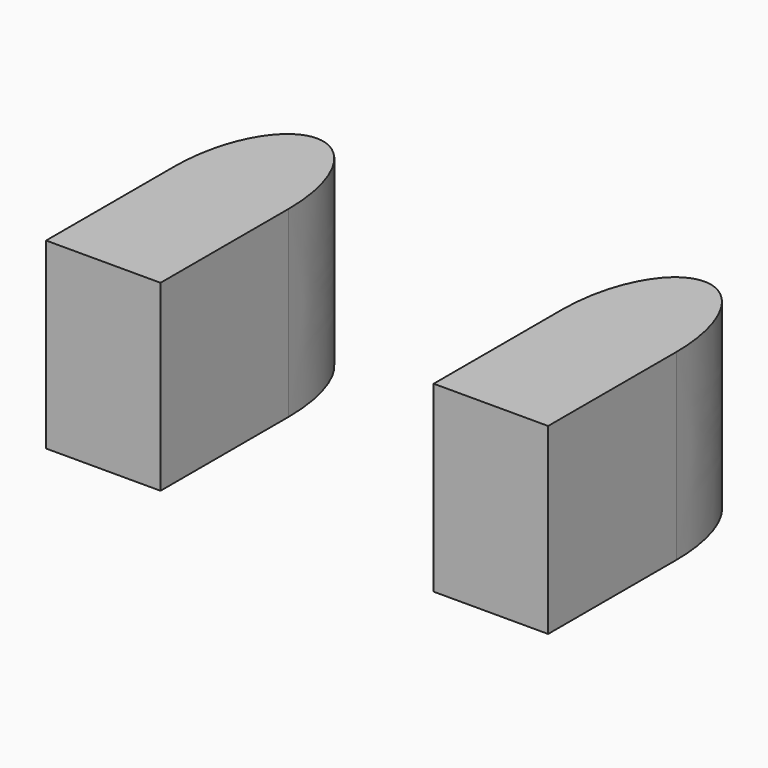
from build123d import *

# Parameters (mm, degrees)
F1_DEPTH = 24


with BuildPart() as f1:
    # F0 (on Top) → F1 (new body)
    with BuildSketch(Plane.XY):
        with BuildLine():
            Line((-7.5, 10.5), (7.5, 10.5))
            add(Edge.make_bspline(
                [(7.5, 10.5), (7.5, 24.5), (0, 24.5)],
                knots=[4.712389, 4.712389, 4.712389, 6.283185, 6.283185, 6.283185], degree=2, weights=[1, 0.707107, 1]))
            add(Edge.make_bspline(
                [(0, 24.5), (-7.5, 24.5), (-7.5, 10.5)],
                knots=[0, 0, 0, 1.570796, 1.570796, 1.570796], degree=2, weights=[1, 0.707107, 1]))
        make_face()
        with BuildLine():
            add(Edge.make_bspline(
                [(-7.5, 10.5), (-7.5, -3.5), (0, -3.5), (7.5, -3.5), (7.5, 10.5)],
                knots=[1.570796, 1.570796, 1.570796, 3.141593, 3.141593, 4.712389, 4.712389, 4.712389], degree=2, weights=[1, 0.707107, 1, 0.707107, 1]))
            Line((7.5, 10.5), (-7.5, 10.5))
        make_face()
        with BuildLine():
            Line((7.5, -10.5), (7.5, 10.5))
            add(Edge.make_bspline(
                [(-7.5, 10.5), (-7.5, -3.5), (0, -3.5), (7.5, -3.5), (7.5, 10.5)],
                knots=[1.570796, 1.570796, 1.570796, 3.141593, 3.141593, 4.712389, 4.712389, 4.712389], degree=2, weights=[1, 0.707107, 1, 0.707107, 1]))
            Line((-7.5, 10.5), (-7.5, -10.5))
            Line((-7.5, -10.5), (7.5, -10.5))
        make_face()
    extrude(amount=F1_DEPTH)


with BuildPart() as f3_1:
    # F3: instance of F1
    add(f1.part.mirror(Plane.YZ.offset(25.4)))


solid = Compound([f1.part, f3_1.part])
